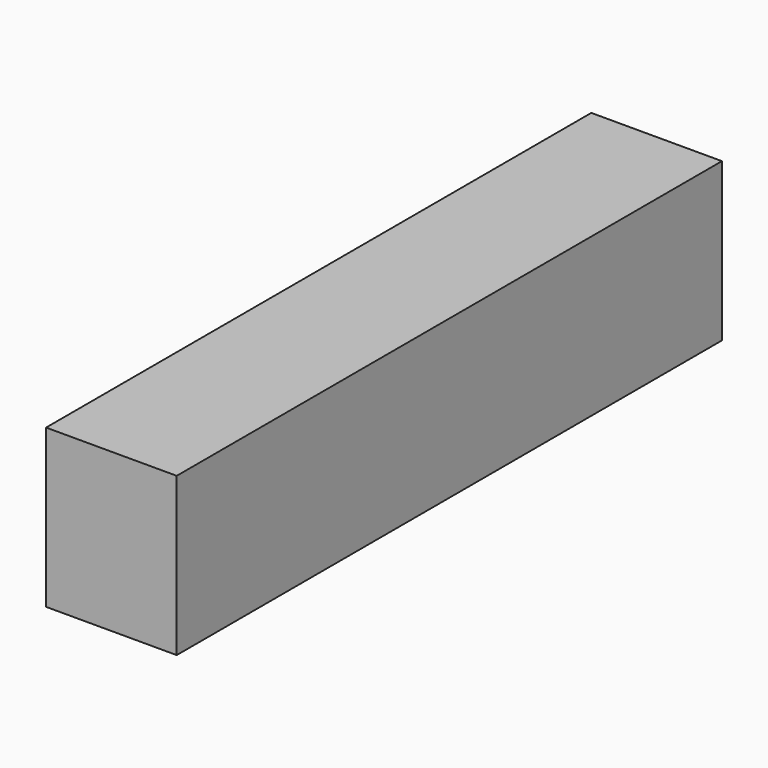
from build123d import *

# Parameters (mm, degrees)
SKETCH_W  = 3130
SKETCH_H  = 725
PAD_DEPTH = 600


with BuildPart() as part:
    # Sketch → Pad (new body)
    with BuildSketch(Plane.YZ):
        with Locations((-1565, 362.5)):
            Rectangle(SKETCH_W, SKETCH_H)
    extrude(amount=PAD_DEPTH)


solid = part.part
